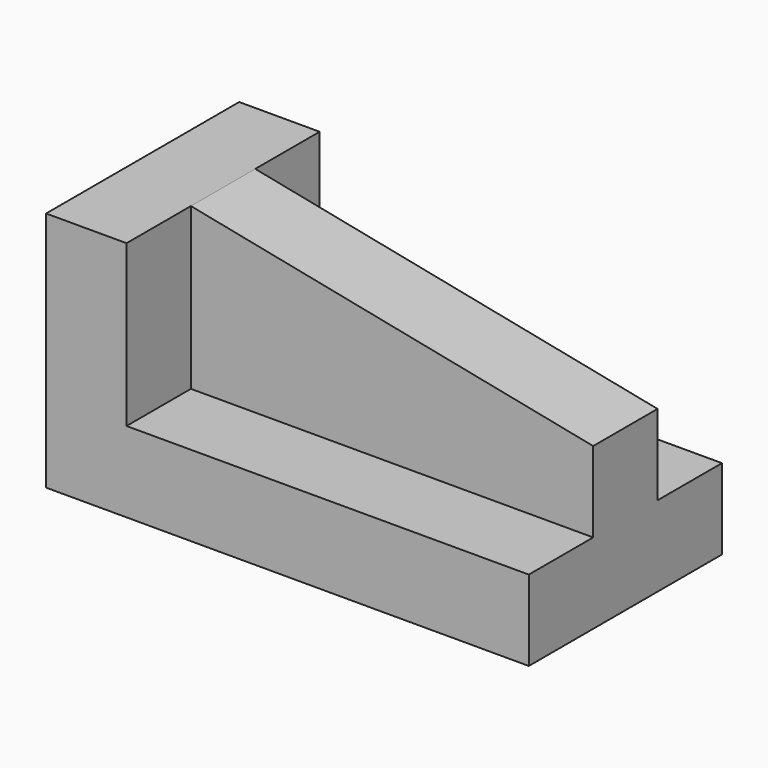
from build123d import *

# Parameters (mm, degrees)
F0_W     = 152.4
F0_H     = 50.8
F1_DEPTH = 76.2
F2_W     = 25.4
F2_H     = 76.2
F3_DEPTH = 25.4
F4_W     = 127
F4_H     = 25.4
F5_DEPTH = 25.4
F7_DEPTH = 25.4
F8_DEPTH = 25.4
F9_DEPTH = 25.4


with BuildPart() as f1:
    # F0 (on Front) → F1 (new body)
    with BuildSketch(Plane.XZ):
        with Locations((92.2907766924, 25.4)):
            Rectangle(F0_W, F0_H)
    extrude(amount=F1_DEPTH)

    # F2 (on face) → F3 (join)
    with BuildSketch(Plane.XY.offset(50.8)):
        with Locations((28.7907766924, -38.1)):
            Rectangle(F2_W, F2_H)
    extrude(amount=F3_DEPTH)

    # F4 (on face) → F5 (join)
    with BuildSketch(Plane.XY.offset(50.8)):
        with Locations((104.9907766924, -38.1)):
            Rectangle(F4_W, F4_H)
    extrude(amount=F5_DEPTH)

    # F6 (on face) → F7 (cut)
    with BuildSketch(Plane.XZ.offset(50.8)):
        Polygon((41.4907766924, 76.2), (168.4907766924, 50.8), (168.4907766924, 76.2), align=None)
    extrude(amount=-F7_DEPTH, mode=Mode.SUBTRACT)

    # F8 (cut): a face of the model
    f8_faces = [f1.faces().sort_by_distance(p)[0] for p in [
        (104.9907766924, -63.5, 50.8),
    ]]
    extrude(f8_faces, amount=-F8_DEPTH, mode=Mode.SUBTRACT)

    # F9 (cut): a face of the model
    f9_faces = [f1.faces().sort_by_distance(p)[0] for p in [
        (104.9907766924, -12.7, 50.8),
    ]]
    extrude(f9_faces, amount=-F9_DEPTH, mode=Mode.SUBTRACT)


solid = f1.part
